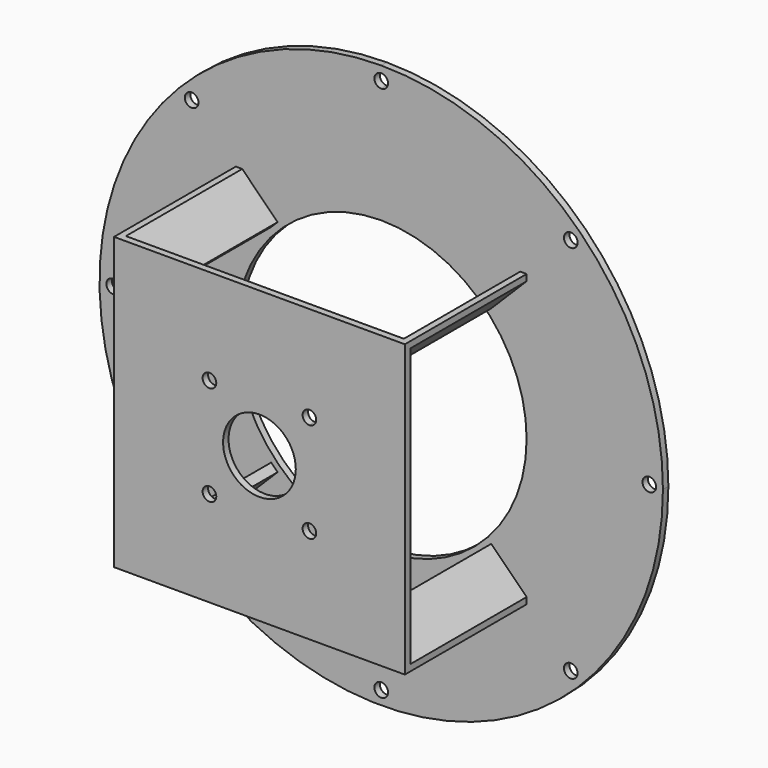
from build123d import *

# Parameters (mm, degrees)
F0_R     = 4.7625
F1_DEPTH = 4.7625
F3_DEPTH = 101.6
F4_W     = 203.2
F4_H     = 203.2
F4_R     = 4.7625
F4_R_2   = 25.4
F5_DEPTH = 4.7625


with BuildPart() as f1:
    # F0 (on Front) → F1 (new body)
    with BuildSketch(Plane.XZ):
        with BuildLine():
            ThreePointArc((196.85, 0), (139.19397, 139.19397), (0, 196.85))
            ThreePointArc((0, 196.85), (-139.19397, -139.19397), (196.85, 0))
        make_face()
        with Locations((-132.458778, -132.458778)):
            Circle(F0_R, mode=Mode.SUBTRACT)
        with Locations((0, -187.325)):
            Circle(F0_R, mode=Mode.SUBTRACT)
        with Locations((132.458778, -132.458778)):
            Circle(F0_R, mode=Mode.SUBTRACT)
        with Locations((-187.325, 0)):
            Circle(F0_R, mode=Mode.SUBTRACT)
        with Locations((-132.458778, 132.458778)):
            Circle(F0_R, mode=Mode.SUBTRACT)
        with BuildLine():
            ThreePointArc((177.8, 0), (-125.723586, -125.723586), (0, 177.8))
            ThreePointArc((0, 177.8), (125.723586, 125.723586), (177.8, 0))
        make_face(mode=Mode.SUBTRACT)
        with Locations((187.325, 0)):
            Circle(F0_R, mode=Mode.SUBTRACT)
        with BuildLine():
            ThreePointArc((4.7625, 187.325), (3.367596, 183.957404), (0, 182.5625))
            ThreePointArc((0, 182.5625), (-4.7625, 187.325), (0, 192.0875))
            ThreePointArc((0, 192.0875), (3.367596, 190.692596), (4.7625, 187.325))
        make_face(mode=Mode.SUBTRACT)
        with Locations((132.458778, 132.458778)):
            Circle(F0_R, mode=Mode.SUBTRACT)
        with BuildLine():
            ThreePointArc((177.8, 0), (125.723586, 125.723586), (0, 177.8))
            ThreePointArc((0, 177.8), (-125.723586, -125.723586), (177.8, 0))
        make_face()
        with BuildLine():
            ThreePointArc((0, 101.6), (71.842049, 71.842049), (101.6, 0))
            ThreePointArc((101.6, 0), (-71.842049, -71.842049), (0, 101.6))
        make_face(mode=Mode.SUBTRACT)
    extrude(amount=F1_DEPTH)

    # F2 (on face) → F3 (join)
    with BuildSketch(Plane.XZ.offset(4.7625)):
        Polygon((-72.414168, 76.904296), (-97.109872, 101.6), (-101.6, 101.6), (-101.6, 97.109872), (-76.904296, 72.414168), (-74.659232, 74.659232), align=None)
        Polygon((76.904296, 72.414168), (101.6, 97.109872), (101.6, 101.6), (97.109872, 101.6), (72.414168, 76.904296), (74.659232, 74.659232), align=None)
        Polygon((101.6, -101.6), (101.6, -97.109872), (76.904296, -72.414168), (74.659232, -74.659232), (72.414168, -76.904296), (97.109872, -101.6), align=None)
        Polygon((-101.6, -101.6), (-97.109872, -101.6), (-72.414168, -76.904296), (-74.659232, -74.659232), (-76.904296, -72.414168), (-101.6, -97.109872), align=None)
    extrude(amount=F3_DEPTH)

    # F4 (on face) → F5 (join)
    with BuildSketch(Plane.XZ.offset(106.3625)):
        Rectangle(F4_W, F4_H)
        with Locations((-34.925, -34.925)):
            Circle(F4_R, mode=Mode.SUBTRACT)
        Circle(F4_R_2, mode=Mode.SUBTRACT)
        with Locations((34.925, -34.925)):
            Circle(F4_R, mode=Mode.SUBTRACT)
        with Locations((-34.925, 34.925)):
            Circle(F4_R, mode=Mode.SUBTRACT)
        with BuildLine():
            ThreePointArc((39.6875, 34.925), (38.292596, 31.557404), (34.925, 30.1625))
            ThreePointArc((34.925, 30.1625), (31.557404, 38.292596), (39.6875, 34.925))
        make_face(mode=Mode.SUBTRACT)
        Polygon((-97.109872, 101.6), (-101.6, 101.6), (-101.6, -101.6), (101.6, -101.6), (101.6, 101.6), align=None)
        with Locations((-34.925, -34.925)):
            Circle(F4_R, mode=Mode.SUBTRACT)
        Circle(F4_R_2, mode=Mode.SUBTRACT)
        with Locations((34.925, -34.925)):
            Circle(F4_R, mode=Mode.SUBTRACT)
        with Locations((-34.925, 34.925)):
            Circle(F4_R, mode=Mode.SUBTRACT)
        with BuildLine():
            ThreePointArc((39.6875, 34.925), (38.292596, 31.557404), (34.925, 30.1625))
            ThreePointArc((34.925, 30.1625), (31.557404, 38.292596), (39.6875, 34.925))
        make_face(mode=Mode.SUBTRACT)
    extrude(amount=F5_DEPTH)


solid = f1.part
